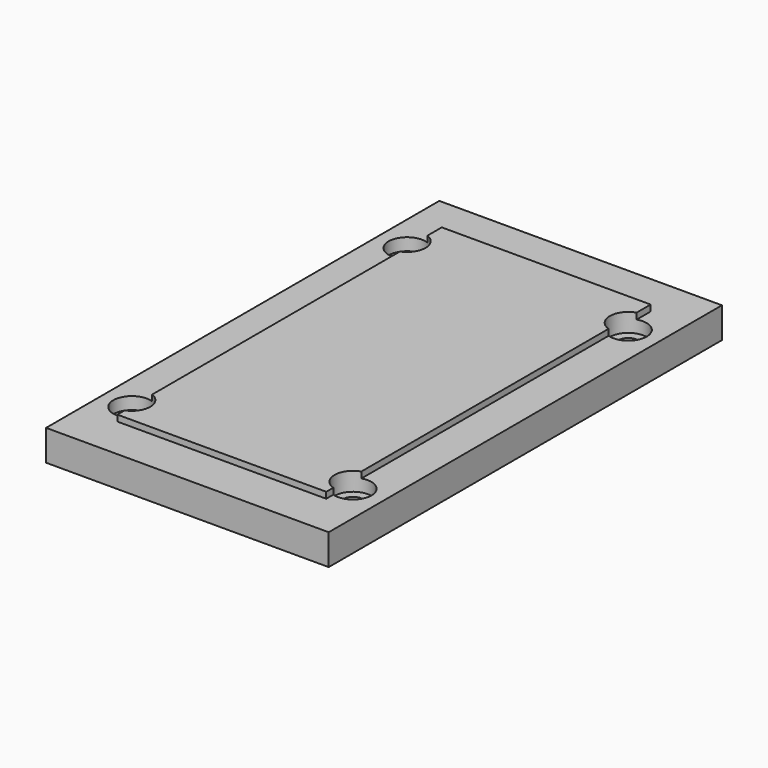
from build123d import *

# Parameters (mm, degrees)
F0_W     = 46
F0_H     = 80
F1_DEPTH = 5
F2_W     = 34
F2_H     = 66
F3_DEPTH = 1
F4_R     = 3
F5_DEPTH = 3
F6_R     = 1.6
F7_DEPTH = 6.001


with BuildPart() as f1:
    # F0 (on Top) → F1 (new body)
    with BuildSketch(Plane.XY):
        with Locations((-1.260705, 0.965576)):
            Rectangle(F0_W, F0_H)
    extrude(amount=F1_DEPTH)

    # F2 (on face) → F3 (join)
    with BuildSketch(Plane.XY.offset(5)):
        with Locations((-1.260705, 0.965576)):
            Rectangle(F2_W, F2_H)
    extrude(amount=F3_DEPTH)

    # F4 (on face) → F5 (cut)
    with BuildSketch(Plane.XY.offset(6)):
        with Locations((-19.337287, 28.25648)):
            Circle(F4_R)
        with Locations((16.662713, 28.25648)):
            Circle(F4_R)
        with Locations((-19.337287, -27.74352)):
            Circle(F4_R)
        with Locations((16.662713, -27.74352)):
            Circle(F4_R)
    extrude(amount=-F5_DEPTH, mode=Mode.SUBTRACT)

    # F6 (on face) → F7 (cut, through all)
    with BuildSketch(Plane.XY.offset(6)):
        with Locations((-19.337287, 28.25648)):
            Circle(F6_R)
        with Locations((16.662713, 28.25648)):
            Circle(F6_R)
        with Locations((-19.337287, -27.74352)):
            Circle(F6_R)
        with Locations((16.662713, -27.74352)):
            Circle(F6_R)
    extrude(amount=-F7_DEPTH, mode=Mode.SUBTRACT)


solid = f1.part
